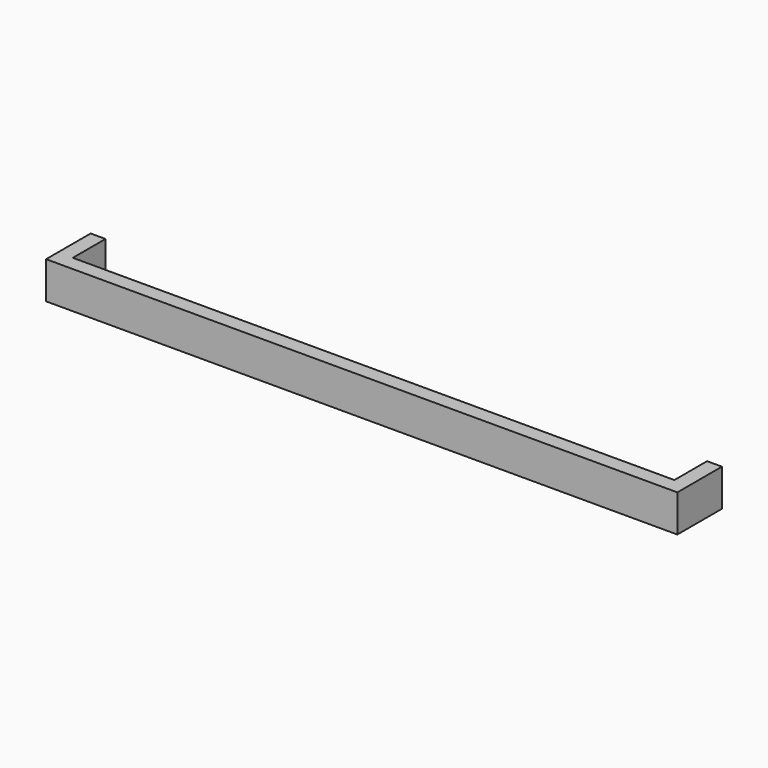
from build123d import *

# Parameters (mm, degrees)
BOX003_W     = 2
BOX003_H     = 5.5
BOX003_DEPTH = 5
BOX005_W     = 85
BOX005_H     = 2
BOX005_DEPTH = 5
BOX004_W     = 2
BOX004_H     = 5.5
BOX004_DEPTH = 5


with BuildPart() as cube003:
    # Box003 → Box003 (new body)
    with BuildSketch(Plane(origin=(-42.5, -41.5, 8), x_dir=(1, 0, 0), z_dir=(0, 0, 1))):
        with Locations((1, 2.75)):
            Rectangle(BOX003_W, BOX003_H)
    extrude(amount=BOX003_DEPTH)


with BuildPart() as cube005:
    # Box005 → Box005 (new body)
    with BuildSketch(Plane(origin=(-42.5, -43.5, 8), x_dir=(1, 0, 0), z_dir=(0, 0, 1))):
        with Locations((42.5, 1)):
            Rectangle(BOX005_W, BOX005_H)
    extrude(amount=BOX005_DEPTH)


with BuildPart() as fusion002:
    # Box004 → Box004 (new body)
    with BuildSketch(Plane(origin=(40.5, -41.5, 8), x_dir=(1, 0, 0), z_dir=(0, 0, 1))):
        with Locations((1, 2.75)):
            Rectangle(BOX004_W, BOX004_H)
    extrude(amount=BOX004_DEPTH)

    # Fusion002: union Cube003, Cube005
    add(cube003.part)
    add(cube005.part)


solid = fusion002.part
